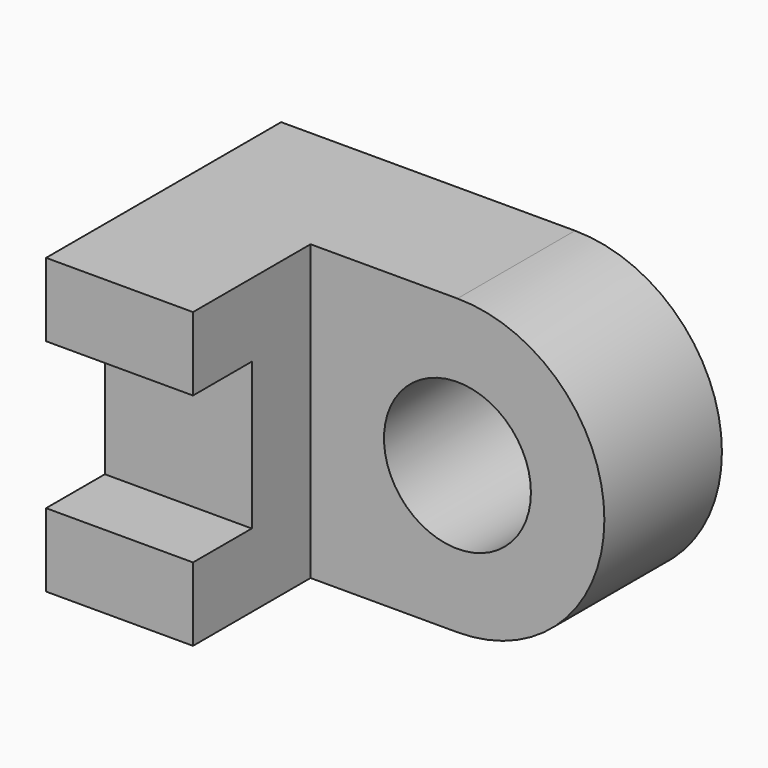
from build123d import *

# Parameters (mm, degrees)
F1_DEPTH = 12.7
F3_DEPTH = 12.7
F4_R     = 6.35
F5_DEPTH = 12.701


with BuildPart() as f1:
    # F0 (on Front) → F1 (new body)
    with BuildSketch(Plane.XZ):
        with BuildLine():
            Line((0, 25.4), (0, 0))
            Line((0, 0), (25.4, 0))
            ThreePointArc((25.4, 0), (38.1, 12.7), (25.4, 25.4))
            Line((25.4, 25.4), (0, 25.4))
        make_face()
    extrude(amount=F1_DEPTH)

    # F2 (on Right) → F3 (join)
    with BuildSketch(Plane.YZ):
        Polygon((0, 0), (0, 25.4), (-25.4, 25.4), (-25.4, 19.05), (-19.05, 19.05), (-19.05, 6.35), (-25.4, 6.35), (-25.4, 0), align=None)
    extrude(amount=F3_DEPTH)

    # F4 (on face) → F5 (cut, through all)
    with BuildSketch(Plane.XZ.offset(12.7)):
        with Locations((25.4, 12.7)):
            Circle(F4_R)
    extrude(amount=-F5_DEPTH, mode=Mode.SUBTRACT)


solid = f1.part
